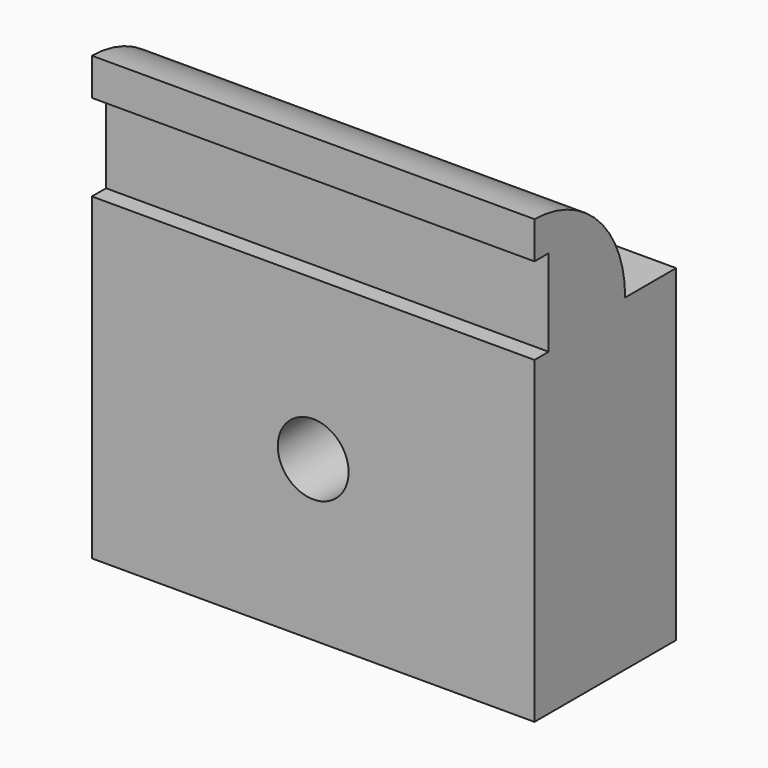
from build123d import *

# Parameters (mm, degrees)
F1_DEPTH = 50
F2_R     = 4
F3_DEPTH = 50


with BuildPart() as f1:
    # F0 (on Right) → F1 (new body)
    with BuildSketch(Plane.YZ):
        with BuildLine():
            ThreePointArc((2.8, 12), (-0.937171, 21.121403), (-10, 24.998461))
            Line((-10, 24.998461), (-10, 20.8))
            Line((-10, 20.8), (-8, 20.8))
            Line((-8, 20.8), (-8, 11))
            Line((-8, 11), (-10, 11))
            Line((-10, 11), (-10, -25))
            Line((-10, -25), (10, -25))
            Line((10, -25), (10, 12))
            Line((10, 12), (2.8, 12))
        make_face()
    extrude(amount=F1_DEPTH)

    # F2 (on face) → F3 (cut)
    with BuildSketch(Plane.XZ.offset(10)):
        with Locations((25, -7)):
            Circle(F2_R)
    extrude(amount=-F3_DEPTH, mode=Mode.SUBTRACT)


solid = f1.part
